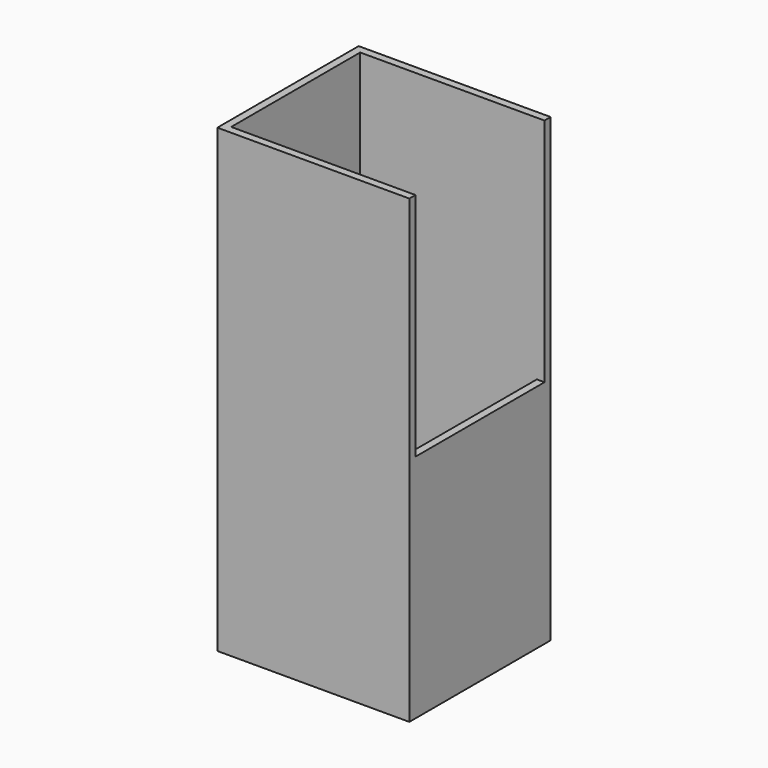
from build123d import *

# Parameters (mm, degrees)
F0_W     = 63.5
F0_H     = 152.4
F1_DEPTH = 58.42
F2_T     = -2.54
F3_W     = 53.34
F3_H     = 76.2
F4_DEPTH = 25.4


with BuildPart() as f1:
    # F0 (on Front) → F1 (new body)
    with BuildSketch(Plane.XZ):
        with Locations((0, -10.713868)):
            Rectangle(F0_W, F0_H)
    extrude(amount=-F1_DEPTH)

    # F2
    f2_openings = [f1.faces().sort_by_distance(p)[0] for p in [
        (0, 29.21, 65.486132),
    ]]
    offset(amount=F2_T, openings=f2_openings)

    # F3 (on face) → F4 (cut)
    with BuildSketch(Plane.YZ.offset(31.75)):
        with Locations((29.21, 27.386132)):
            Rectangle(F3_W, F3_H)
    extrude(amount=-F4_DEPTH, mode=Mode.SUBTRACT)


solid = f1.part
